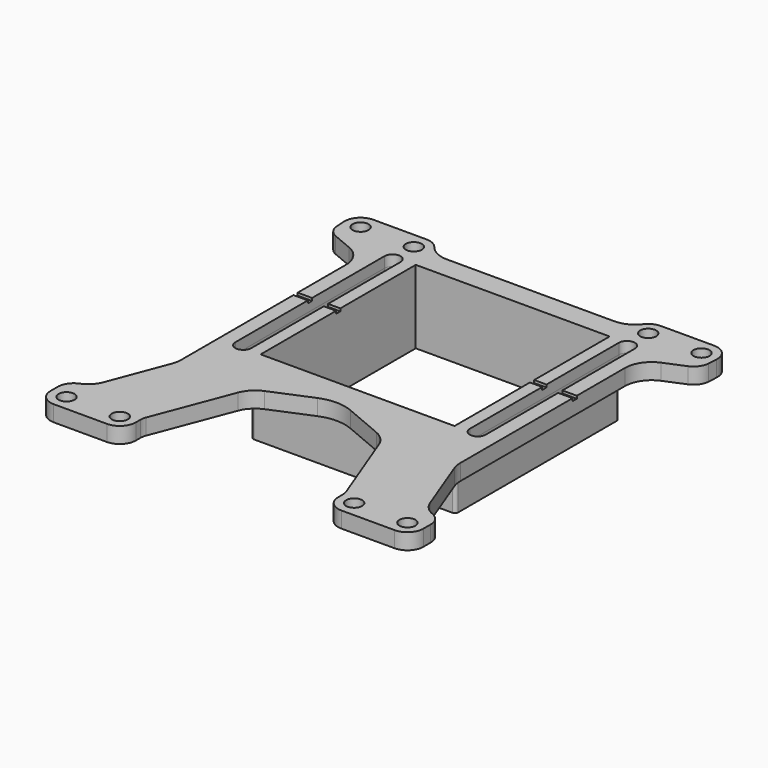
from build123d import *

# Parameters (mm, degrees)
F1_W          = 38.4
F1_H          = 38.4
F1_W_2        = 36.4
F1_H_2        = 36.4
F2_DEPTH      = 11.8
F3_R          = 1.5
F3_W          = 38.4
F3_H          = 38.4
F3_W_2        = 36.4
F3_H_2        = 36.4
F4_DEPTH      = 2
F4_DEPTH_BACK = 1
F5_R          = 0.6
F6_W          = 8
F6_H          = 1
F7_DEPTH      = 0.5


with BuildPart() as f2:
    # F1 (on Top) → F2 (new body)
    with BuildSketch(Plane.XY):
        Rectangle(F1_W, F1_H)
        Rectangle(F1_W_2, F1_H_2, mode=Mode.SUBTRACT)
    extrude(amount=F2_DEPTH)

    # F3 (on face) → F4 (join, two sides)
    with BuildSketch(Plane.XY.offset(11.8)) as f4_sk:
        with BuildLine():
            ThreePointArc((-35, -46.5), (-34.12132, -48.62132), (-32, -49.5))
            Line((-32, -49.5), (-22, -49.5))
            ThreePointArc((-22, -49.5), (-19.87868, -48.62132), (-19, -46.5))
            Line((-19, -46.5), (-19, -45.438493))
            ThreePointArc((-19, -45.438493), (-18.950318, -44.894781), (-18.802918, -44.369078))
            Line((-18.802918, -44.369078), (-13.230511, -29.763898))
            ThreePointArc((-13.230511, -29.763898), (-12.151972, -28.06913), (-10.493455, -26.935637))
            Line((-10.493455, -26.935637), (-3.057386, -23.81569))
            ThreePointArc((-3.057386, -23.81569), (0.049323, -23.192689), (3.154219, -23.824657))
            Line((3.154219, -23.824657), (10.503716, -26.933267))
            ThreePointArc((10.503716, -26.933267), (12.153945, -28.066345), (13.227468, -29.755923))
            Line((13.227468, -29.755923), (18.802918, -44.369078))
            ThreePointArc((18.802918, -44.369078), (18.950318, -44.894781), (19, -45.438493))
            Line((19, -45.438493), (19, -46.5))
            ThreePointArc((19, -46.5), (19.87868, -48.62132), (22, -49.5))
            Line((22, -49.5), (32, -49.5))
            ThreePointArc((32, -49.5), (34.12132, -48.62132), (35, -46.5))
            Line((35, -46.5), (35, -44.801084))
            ThreePointArc((35, -44.801084), (34.484786, -43.120061), (33.116107, -42.016429))
            ThreePointArc((33.116107, -42.016429), (31.618403, -41.017341), (30.649398, -39.5))
            Line((30.649398, -39.5), (26.524716, -28.620354))
            ThreePointArc((26.524716, -28.620354), (26.281849, -27.748859), (26.2, -26.847865))
            Line((26.2, -26.847865), (26.2, 11.797695))
            ThreePointArc((26.2, 11.797695), (27.038254, 14.568952), (29.271947, 16.411003))
            Line((29.271947, 16.411003), (33.054434, 17.991828))
            ThreePointArc((33.054434, 17.991828), (34.344715, 19.024405), (34.892422, 20.58359))
            Line((34.892422, 20.58359), (34.99482, 22.323777))
            ThreePointArc((34.99482, 22.323777), (34.18231, 24.558524), (31.99876, 25.5))
            Line((31.99876, 25.5), (21.997216, 25.495866))
            ThreePointArc((21.997216, 25.495866), (20.678268, 25.189768), (19.628246, 24.334917))
            ThreePointArc((19.628246, 24.334917), (17.87728, 22.90971), (15.677896, 22.4))
            Line((15.677896, 22.4), (-15.677896, 22.4))
            ThreePointArc((-15.677896, 22.4), (-17.87728, 22.90971), (-19.628246, 24.334917))
            ThreePointArc((-19.628246, 24.334917), (-20.678268, 25.189768), (-21.997216, 25.495866))
            Line((-21.997216, 25.495866), (-31.99876, 25.5))
            ThreePointArc((-31.99876, 25.5), (-34.18231, 24.558524), (-34.99482, 22.323777))
            Line((-34.99482, 22.323777), (-34.892422, 20.58359))
            ThreePointArc((-34.892422, 20.58359), (-34.344715, 19.024405), (-33.054434, 17.991828))
            Line((-33.054434, 17.991828), (-29.271947, 16.411003))
            ThreePointArc((-29.271947, 16.411003), (-27.038254, 14.568952), (-26.2, 11.797695))
            Line((-26.2, 11.797695), (-26.2, -26.847865))
            ThreePointArc((-26.2, -26.847865), (-26.281849, -27.748859), (-26.524716, -28.620354))
            Line((-26.524716, -28.620354), (-30.649398, -39.5))
            ThreePointArc((-30.649398, -39.5), (-31.618403, -41.017341), (-33.116107, -42.016429))
            ThreePointArc((-33.116107, -42.016429), (-34.484786, -43.120061), (-35, -44.801084))
            Line((-35, -44.801084), (-35, -46.5))
        make_face()
        with Locations((-32, -46.5)):
            Circle(F3_R, mode=Mode.SUBTRACT)
        with Locations((-22, -46.5)):
            Circle(F3_R, mode=Mode.SUBTRACT)
        with Locations((22, -46.5)):
            Circle(F3_R, mode=Mode.SUBTRACT)
        with Locations((32, -46.5)):
            Circle(F3_R, mode=Mode.SUBTRACT)
        with BuildLine():
            ThreePointArc((-20.5, -17.5), (-22, -19), (-23.5, -17.5))
            Line((-23.5, -17.5), (-23.5, 17.5))
            ThreePointArc((-23.5, 17.5), (-22, 19), (-20.5, 17.5))
            Line((-20.5, 17.5), (-20.5, -17.5))
        make_face(mode=Mode.SUBTRACT)
        with Locations((-32, 22.5)):
            Circle(F3_R, mode=Mode.SUBTRACT)
        with Locations((-21.998456, 22.495866)):
            Circle(F3_R, mode=Mode.SUBTRACT)
        Rectangle(F3_W, F3_H, mode=Mode.SUBTRACT)
        with BuildLine():
            ThreePointArc((20.5, 17.5), (22, 19), (23.5, 17.5))
            Line((23.5, 17.5), (23.5, -17.5))
            ThreePointArc((23.5, -17.5), (22, -19), (20.5, -17.5))
            Line((20.5, -17.5), (20.5, 17.5))
        make_face(mode=Mode.SUBTRACT)
        with Locations((22, 22.5)):
            Circle(F3_R, mode=Mode.SUBTRACT)
        with Locations((32, 22.5)):
            Circle(F3_R, mode=Mode.SUBTRACT)
        Rectangle(F3_W, F3_H)
        Rectangle(F3_W_2, F3_H_2, mode=Mode.SUBTRACT)
    extrude(amount=F4_DEPTH)
    extrude(f4_sk.sketch, amount=-F4_DEPTH_BACK)

    # F5
    f5_edges = [f2.edges().sort_by_distance(p)[0] for p in [
        (-19.2, -19.2, 5.4),
        (19.2, -19.2, 5.4),
        (19.2, 19.2, 5.4),
        (-19.2, 19.2, 5.4),
    ]]
    fillet(f5_edges, radius=F5_R)

    # F6 (on face) → F7 (cut)
    with BuildSketch(Plane.XY.offset(13.8)):
        with Locations((-22.2, 0)):
            Rectangle(F6_W, F6_H)
        with Locations((-22.2, 0)):
            Rectangle(F6_W, F6_H)
        with Locations((22.2, 0)):
            Rectangle(F6_W, F6_H)
        with Locations((22.2, 0)):
            Rectangle(F6_W, F6_H)
    extrude(amount=-F7_DEPTH, mode=Mode.SUBTRACT)


solid = f2.part
